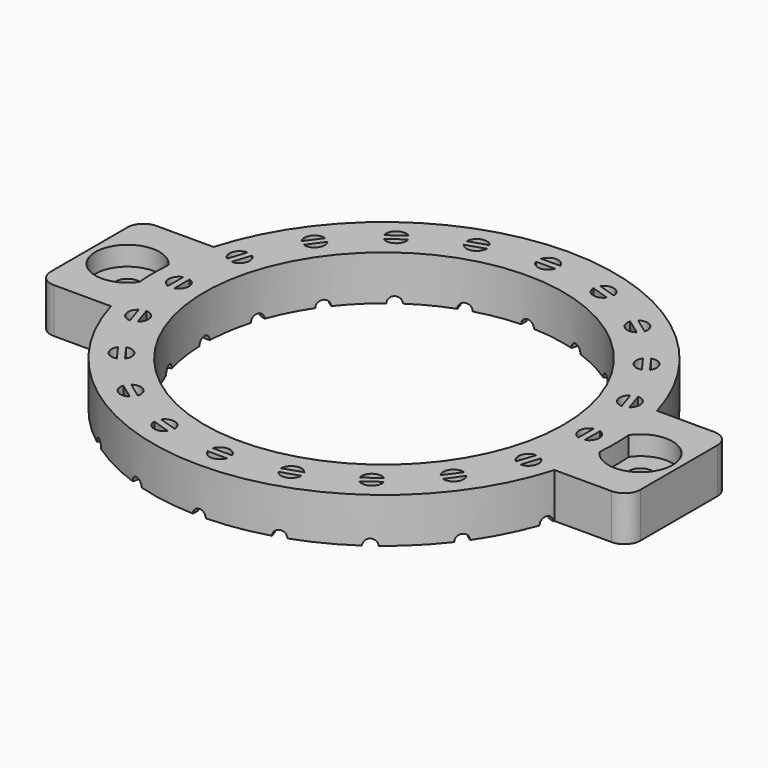
from build123d import *

# Parameters (mm, degrees)
SKETCH_R          = 2.5
PAD_DEPTH         = 10
CYLINDER002_R     = 2
CYLINDER002_DEPTH = 10
ARRAY_COUNT       = 20
TUBE_R            = 35
TUBE_R_2          = 29
TUBE_DEPTH        = 4
CYLINDER004_R     = 1
CYLINDER004_DEPTH = 20
ARRAY002_COUNT    = 20
CYLINDER001_R     = 28
CYLINDER001_DEPTH = 10
CYLINDER010_R     = 5
CYLINDER010_DEPTH = 7
CYLINDER009_R     = 1.8
CYLINDER009_DEPTH = 7
BOX010_W          = 14
BOX010_H          = 20
BOX010_DEPTH      = 7
FILLET002_R       = 2.5
CYLINDER_R        = 36
CYLINDER_DEPTH    = 7


with BuildPart() as body:
    # Sketch → Pad (new body)
    with BuildSketch(Plane.XY):
        Circle(SKETCH_R)
        with BuildLine():
            Line((-0.5, 1.5), (-0.5, -1.5))
            ThreePointArc((-0.5, 1.5), (-1.581139, 0), (-0.5, -1.5))
        make_face(mode=Mode.SUBTRACT)
        with BuildLine():
            Line((0.5, 1.5), (0.5, -1.5))
            ThreePointArc((0.5, -1.5), (1.581139, 0), (0.5, 1.5))
        make_face(mode=Mode.SUBTRACT)
    extrude(amount=PAD_DEPTH)


with BuildPart() as led_holder_array:
    # Cylinder002 → Cylinder002 (new body)
    with BuildSketch(Plane.XY):
        Circle(CYLINDER002_R)
    extrude(amount=CYLINDER002_DEPTH)

    # Cut001: cut Body
    add(body.part, mode=Mode.SUBTRACT)


with BuildPart() as led_holder_array_1:
    # Cut001 placement: moved
    add(led_holder_array.part.moved(Location((32, 0, 0))))

    # Array: led holder array ×20 about axis
    array_axis = Axis((0, 0, 0), (0, 0, 1))


with BuildPart() as led_holder_array_2:
    add(led_holder_array_1.part)
    for i in range(1, ARRAY_COUNT):
        add(led_holder_array_1.part.rotate(array_axis, i * 360 / ARRAY_COUNT))


with BuildPart() as middle_tube:
    # Tube → Tube (new body)
    with BuildSketch(Plane.XY):
        Circle(TUBE_R)
        Circle(TUBE_R_2, mode=Mode.SUBTRACT)
    extrude(amount=TUBE_DEPTH)


with BuildPart() as wire_hole_array:
    # Cylinder004 → Cylinder004 (new body)
    with BuildSketch(Plane.XZ.offset(-36)):
        Circle(CYLINDER004_R)
    extrude(amount=CYLINDER004_DEPTH)

    # Array002: wire hole array ×20 about axis
    array002_axis = Axis((0, 0, 0), (0, 0, 1))


with BuildPart() as wire_hole_array_1:
    add(wire_hole_array.part)
    for i in range(1, ARRAY002_COUNT):
        add(wire_hole_array.part.rotate(array002_axis, i * 360 / ARRAY002_COUNT))


with BuildPart() as fusion:
    # Cylinder001 → Cylinder001 (new body)
    with BuildSketch(Plane.XY):
        Circle(CYLINDER001_R)
    extrude(amount=CYLINDER001_DEPTH)

    # Fusion: union led holder array, middle tube, wire hole array
    add(led_holder_array_2.part)
    add(middle_tube.part)
    add(wire_hole_array_1.part)


with BuildPart() as obj1:
    # Cylinder010 → Cylinder010 (new body)
    with BuildSketch(Plane.XY.offset(4)):
        Circle(CYLINDER010_R)
    extrude(amount=CYLINDER010_DEPTH)


with BuildPart() as hole_cube_hole_fusion:
    # Cylinder009 → Cylinder009 (new body)
    with BuildSketch(Plane.XY):
        Circle(CYLINDER009_R)
    extrude(amount=CYLINDER009_DEPTH)

    # Fusion005004006: union obj1
    add(obj1.part)


with BuildPart() as hole_cube_hole_fusion_1:
    # Fusion005004006 placement: moved
    add(hole_cube_hole_fusion.part.moved(Location((8, 0, 0))))


with BuildPart() as hole_cube_cut:
    # Box010 → Box010 (new body)
    with BuildSketch(Plane(origin=(0, -10, 0), x_dir=(1, 0, 0), z_dir=(0, 0, 1))):
        with Locations((7, 10)):
            Rectangle(BOX010_W, BOX010_H)
    extrude(amount=BOX010_DEPTH)

    # Fillet002
    fillet002_edges = [hole_cube_cut.edges().sort_by_distance(p)[0] for p in [
        (14, -10, 3.5),
        (14, 10, 3.5),
    ]]
    fillet(fillet002_edges, radius=FILLET002_R)

    # Cut002003004: cut hole cube hole fusion
    add(hole_cube_hole_fusion_1.part, mode=Mode.SUBTRACT)


with BuildPart() as hole_cube_cut_1:
    # Cut002003004 placement: moved
    add(hole_cube_cut.part.moved(Location((32, 0, 0))))


with BuildPart() as part_mirroring:
    # Part__Mirroring: instance of hole cube cut
    add(hole_cube_cut_1.part.mirror(Plane(origin=(0, 0, 0), x_dir=(0, -1, 0), z_dir=(1, 0, 0))))


with BuildPart() as led_circle_cut:
    # Cylinder → Cylinder (new body)
    with BuildSketch(Plane.XY):
        Circle(CYLINDER_R)
    extrude(amount=CYLINDER_DEPTH)

    # Fusion005004002: union hole cube cut, Part__Mirroring
    add(hole_cube_cut_1.part)
    add(part_mirroring.part)

    # Cut: cut Fusion
    add(fusion.part, mode=Mode.SUBTRACT)


with BuildPart() as led_circle_cut_1:
    # Cut placement: moved
    add(led_circle_cut.part.moved(Location((0, 0, 11))))


solid = led_circle_cut_1.part
